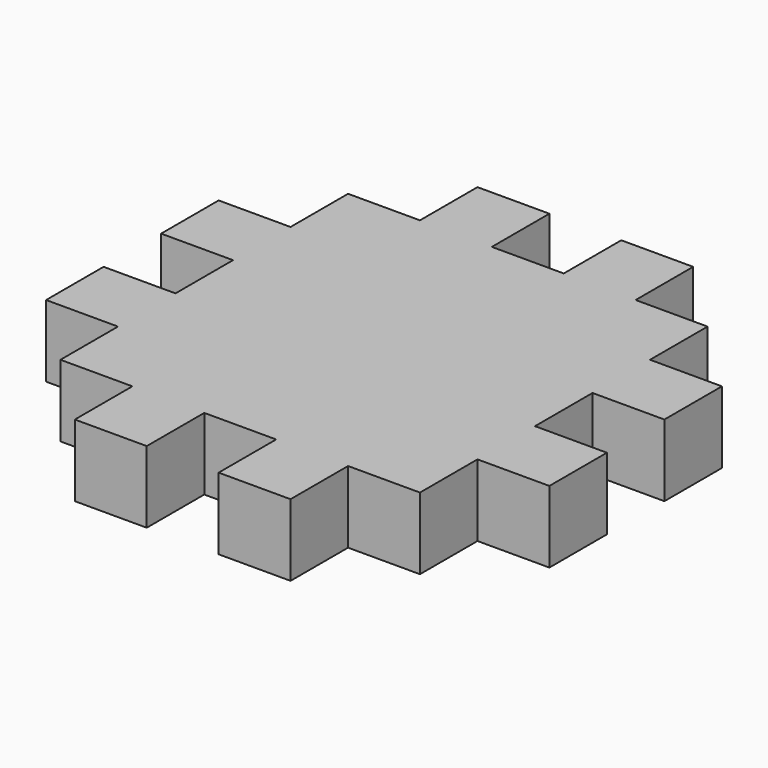
from build123d import *

# Parameters (mm, degrees)
F0_W     = 127
F0_H     = 127
F1_DEPTH = 127


with BuildPart() as f1:
    # F0 (on Top) → F1 (new body)
    with BuildSketch(Plane.XY):
        Polygon((127, 0), (0, 0), (0, -127), (0, -254), (0, -381), (0, -508), (0, -635), (127, -635), (254, -635), (381, -635), (508, -635), (635, -635), (635, -508), (635, -381), (635, -254), (635, -127), (635, 0), (508, 0), (381, 0), (254, 0), align=None)
        with Locations((190.5, 63.5)):
            Rectangle(F0_W, F0_H)
        with Locations((-63.5, -190.5)):
            Rectangle(F0_W, F0_H)
        with Locations((444.5, 63.5)):
            Rectangle(F0_W, F0_H)
        with Locations((-63.5, -444.5)):
            Rectangle(F0_W, F0_H)
        with Locations((698.5, -190.5)):
            Rectangle(F0_W, F0_H)
        with Locations((190.5, -698.5)):
            Rectangle(F0_W, F0_H)
        with Locations((698.5, -444.5)):
            Rectangle(F0_W, F0_H)
        with Locations((444.5, -698.5)):
            Rectangle(F0_W, F0_H)
    extrude(amount=F1_DEPTH)


solid = f1.part
